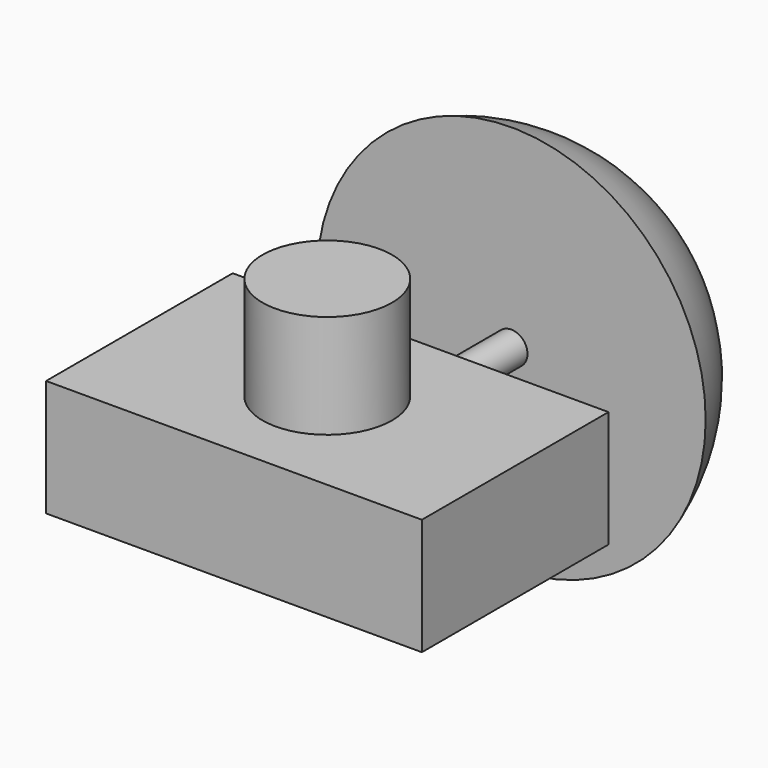
from build123d import *

# Parameters (mm, degrees)
F0_W     = 29
F0_H     = 18
F1_DEPTH = 9
F2_R     = 5
F3_DEPTH = 8
F4_W     = 7
F4_H     = 8
F5_DEPTH = 2
F6_W     = 6
F6_H     = 2
F7_DEPTH = 5
F8_R     = 1.25
F9_DEPTH = 5


with BuildPart() as f1:
    # F0 (on Top) → F1 (new body)
    with BuildSketch(Plane.XY):
        with Locations((14.5, 9)):
            Rectangle(F0_W, F0_H)
    extrude(amount=F1_DEPTH)

    # F2 (on face) → F3 (join)
    with BuildSketch(Plane.XY.offset(9)):
        with Locations((14.5, 9)):
            Circle(F2_R)
    extrude(amount=F3_DEPTH)

    # F4 (on face) → F5 (join)
    with BuildSketch(Plane(origin=(0, 0, 0), x_dir=(1, 0, 0), z_dir=(0, 0, -1))):
        with Locations((21, -12)):
            Rectangle(F4_W, F4_H)
    extrude(amount=F5_DEPTH)

    # F6 (on face) → F7 (join)
    with BuildSketch(Plane(origin=(0, 18, 0), x_dir=(-1, 0, 0), z_dir=(0, 1, 0))):
        with Locations((-13.5, 4)):
            Rectangle(F6_W, F6_H)
    extrude(amount=F7_DEPTH)

    # F8 (on face) → F9 (join)
    with BuildSketch(Plane(origin=(0, 23, 0), x_dir=(-1, 0, 0), z_dir=(0, 1, 0))):
        with Locations((-13.5, 4.25)):
            Circle(F8_R)
    extrude(amount=F9_DEPTH)

    # F12 (on plane+point) → F13 (revolve)
    with BuildSketch(Plane(origin=(0, 0, 4.25), x_dir=(1, 0, 0), z_dir=(0, 0, -1))):
        with BuildLine():
            Line((28.5, -28), (14.75, -28))
            Line((14.75, -28), (13.5, -28))
            Line((13.5, -28), (13.5, -38.8361305416))
            ThreePointArc((13.5, -38.8361305416), (22.7523203186, -35.8437286272), (28.5, -28))
        make_face()
    revolve(axis=Axis((13.5, 35.315773949, 4.25), (0, 1, 0)))


solid = f1.part
